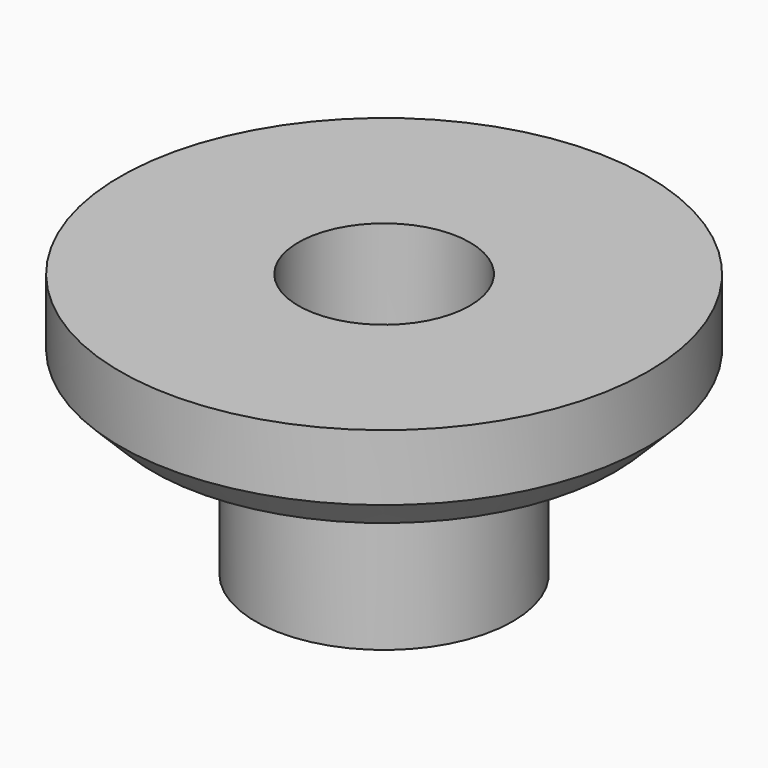
from build123d import *

# Parameters (mm, degrees)
SKETCH_R      = 3.9
SKETCH_R_2    = 2.6
PAD_DEPTH     = 5
SKETCH001_R   = 8
SKETCH001_R_2 = 2.6
PAD001_DEPTH  = 3
CHAMFER_SIZE  = 1


with BuildPart() as part:
    # Sketch → Pad (new body)
    with BuildSketch(Plane.XY):
        Circle(SKETCH_R)
        Circle(SKETCH_R_2, mode=Mode.SUBTRACT)
    extrude(amount=PAD_DEPTH)

    # Sketch001 (on Face4 of Pad) → Pad001 (join)
    with BuildSketch(Plane.XY.offset(5)):
        Circle(SKETCH001_R)
        Circle(SKETCH001_R_2, mode=Mode.SUBTRACT)
    extrude(amount=PAD001_DEPTH)

    # Chamfer
    chamfer_edges = [part.edges().sort_by_distance(p)[0] for p in [
        (-8, 0, 5),
    ]]
    chamfer(chamfer_edges, length=CHAMFER_SIZE)


solid = part.part
